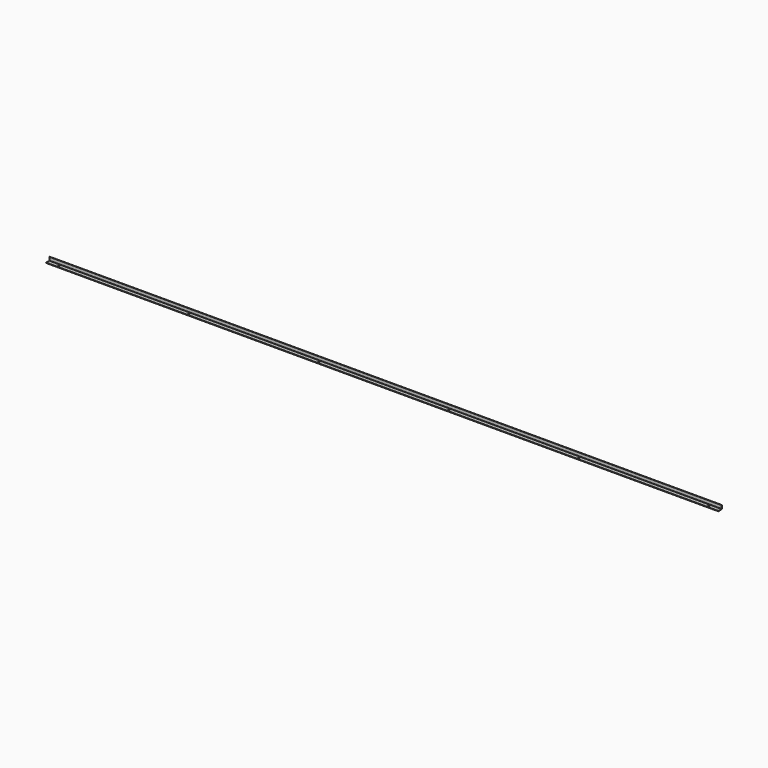
from build123d import *

# Parameters (mm, degrees)
F1_DEPTH = 1800
F2_R     = 0.5
F3_R     = 1.5
F4_R     = 2.1
F5_DEPTH = 25


with BuildPart() as f1:
    # F0 (on Right) → F1 (new body)
    with BuildSketch(Plane.YZ):
        Polygon((-12, 0), (0, 0), (0, 10), (-1, 10), (-1, 1), (-12, 1), align=None)
    extrude(amount=F1_DEPTH)

    # F2
    f2_edges = [f1.edges().sort_by_distance(p)[0] for p in [
        (900, -1, 1),
    ]]
    fillet(f2_edges, radius=F2_R)

    # F3
    f3_edges = [f1.edges().sort_by_distance(p)[0] for p in [
        (900, 0, 0),
    ]]
    fillet(f3_edges, radius=F3_R)

    # F4 (on Top) → F5 (cut)
    with BuildSketch(Plane.XY):
        with Locations((30, -6.5)):
            Circle(F4_R)
        with Locations((378, -6.5)):
            Circle(F4_R)
        with Locations((726, -6.5)):
            Circle(F4_R)
        with Locations((1074, -6.5)):
            Circle(F4_R)
        with Locations((1422, -6.5)):
            Circle(F4_R)
        with Locations((1770, -6.5)):
            Circle(F4_R)
    extrude(amount=F5_DEPTH, mode=Mode.SUBTRACT)


solid = f1.part
